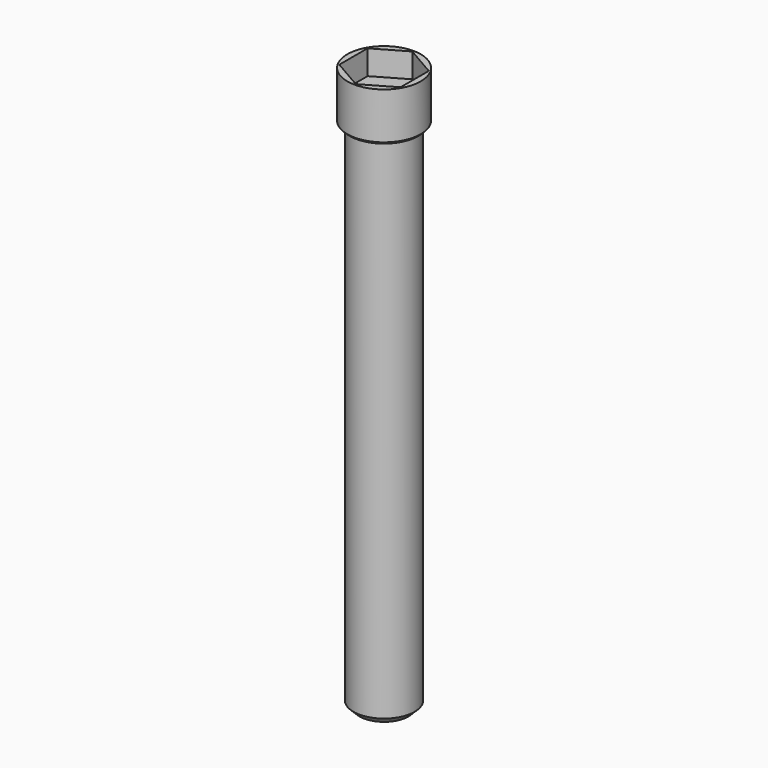
from build123d import *

# Parameters (mm, degrees)
F0_R     = 3
F1_DEPTH = 4
F3_DEPTH = 2
F4_R     = 2.5
F5_DEPTH = 42
F6_SIZE  = 0.5
F7_SIZE  = 0.2


with BuildPart() as f1:
    # F0 (on Top) → F1 (new body)
    with BuildSketch(Plane.XY):
        Circle(F0_R)
    extrude(amount=F1_DEPTH)

    # F2 (on face) → F3 (cut)
    with BuildSketch(Plane.XY.offset(4)):
        Polygon((2.5, -1.443376), (2.5, 1.443376), (0, 2.886751), (-2.5, 1.443376), (-2.5, -1.443376), (0, -2.886751), align=None)
    extrude(amount=-F3_DEPTH, mode=Mode.SUBTRACT)

    # F4 (on face) → F5 (join)
    with BuildSketch(Plane(origin=(0, 0, 0), x_dir=(1, 0, 0), z_dir=(0, 0, -1))):
        Circle(F4_R)
    extrude(amount=F5_DEPTH)

    # F6
    f6_edges = [f1.edges().sort_by_distance(p)[0] for p in [
        (-2.5, 0, -42),
    ]]
    chamfer(f6_edges, length=F6_SIZE)

    # F7
    f7_edges = [f1.edges().sort_by_distance(p)[0] for p in [
        (-3, 0, 0),
    ]]
    chamfer(f7_edges, length=F7_SIZE)


solid = f1.part
